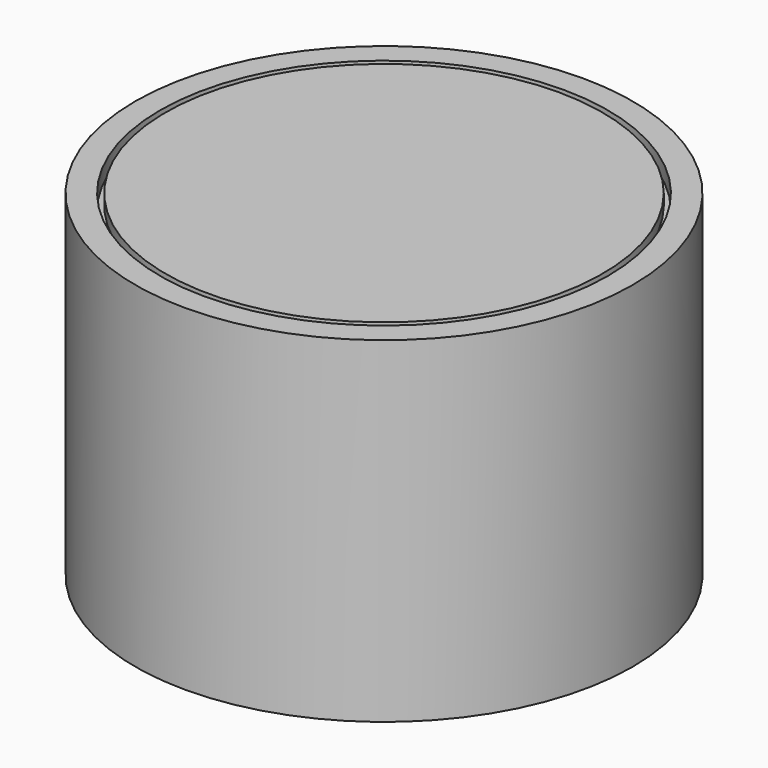
from build123d import *


with BuildPart() as f1:
    # F0 (on Right) → F1 (revolve)
    with BuildSketch(Plane.YZ):
        Polygon((22.2, -30), (22.2, 0), (20, 0), (20, -1.4), (17, -1.4), (17, -2), (20, -5), (20, -28), (0, -28), (0, -30), align=None)
        Polygon((19.5, -1), (19.5, 0), (0, 0), (0, -2), (16.5, -2), (16.5, -1), align=None)
    revolve(axis=Axis((0, 0, -29), (0, 0, 1)))


solid = f1.part
